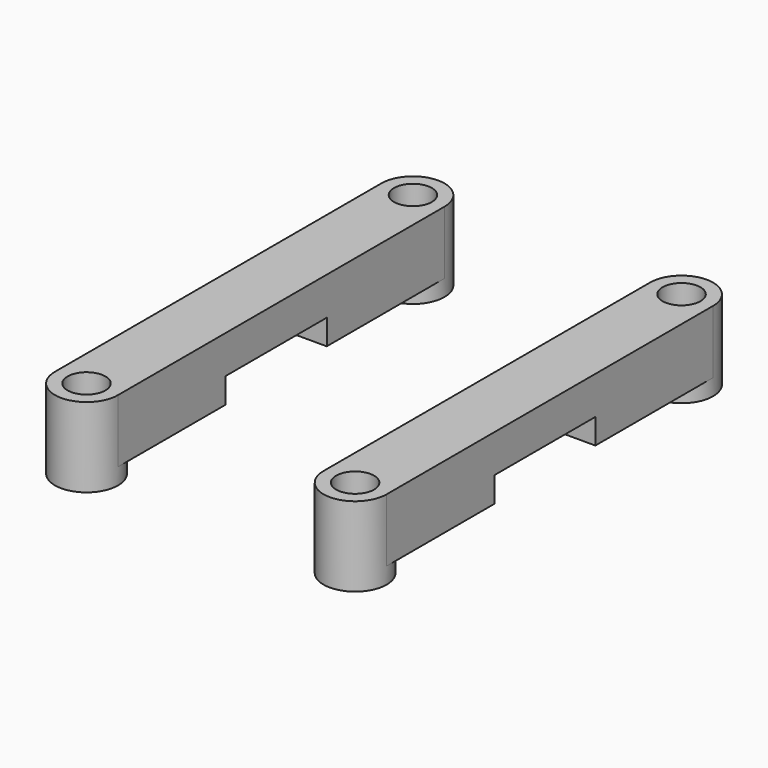
from build123d import *

# Parameters (mm, degrees)
SKETCH045_R      = 2.5
SKETCH045_R_2    = 1.5
EXTRUDE046_DEPTH = 1.3
SKETCH035_W      = 27.27
SKETCH035_H      = 10
EXTRUDE033_DEPTH = 2
SKETCH034_R      = 1.5
EXTRUDE034_DEPTH = 5


with BuildPart() as extrude_displaycase_mount_stand:
    # Sketch045 → Extrude046 (new body)
    with BuildSketch(Plane.XY):
        with Locations((3, 30.31)):
            Circle(SKETCH045_R)
        with Locations((3, 30.31)):
            Circle(SKETCH045_R_2, mode=Mode.SUBTRACT)
        with Locations((24.27, 30.31)):
            Circle(SKETCH045_R)
        with Locations((24.27, 30.31)):
            Circle(SKETCH045_R_2, mode=Mode.SUBTRACT)
        with Locations((3, -2)):
            Circle(SKETCH045_R)
        with Locations((3, -2)):
            Circle(SKETCH045_R_2, mode=Mode.SUBTRACT)
        with Locations((24.27, -2)):
            Circle(SKETCH045_R)
        with Locations((24.27, -2)):
            Circle(SKETCH045_R_2, mode=Mode.SUBTRACT)
    extrude(amount=EXTRUDE046_DEPTH)


with BuildPart() as extrude_displaycase_mount_stand_1:
    # Extrude046 placement: moved
    add(extrude_displaycase_mount_stand.part.moved(Location((0, 0, -1.3))))


with BuildPart() as extrude_displaycase_mountcutout:
    # Sketch035 → Extrude033 (new body)
    with BuildSketch(Plane.XY):
        with Locations((13.635, 13.655)):
            Rectangle(SKETCH035_W, SKETCH035_H)
    extrude(amount=EXTRUDE033_DEPTH)


with BuildPart() as fusion_displaycase_mount:
    # Sketch034 → Extrude034 (new body)
    with BuildSketch(Plane.XY):
        with BuildLine():
            ThreePointArc((5.5, 30.31), (3, 32.81), (0.5, 30.31))
            Line((0.5, 30.31), (0.5, -2))
            ThreePointArc((0.5, -2), (3, -4.5), (5.5, -2))
            Line((5.5, -2), (5.5, 30.31))
        make_face()
        with Locations((3, 30.31)):
            Circle(SKETCH034_R, mode=Mode.SUBTRACT)
        with Locations((3, -2)):
            Circle(SKETCH034_R, mode=Mode.SUBTRACT)
        with BuildLine():
            ThreePointArc((26.77, 30.31), (24.27, 32.81), (21.77, 30.31))
            Line((21.77, 30.31), (21.77, -2))
            ThreePointArc((21.77, -2), (24.27, -4.5), (26.77, -2))
            Line((26.77, -2), (26.77, 30.31))
        make_face()
        with Locations((24.27, 30.31)):
            Circle(SKETCH034_R, mode=Mode.SUBTRACT)
        with Locations((24.27, -2)):
            Circle(SKETCH034_R, mode=Mode.SUBTRACT)
    extrude(amount=EXTRUDE034_DEPTH)

    # Cut008: cut Extrude_DisplayCase_MountCutOut
    add(extrude_displaycase_mountcutout.part, mode=Mode.SUBTRACT)

    # Fusion014: union Extrude_DisplayCase_Mount_Stand
    add(extrude_displaycase_mount_stand_1.part)


solid = fusion_displaycase_mount.part
